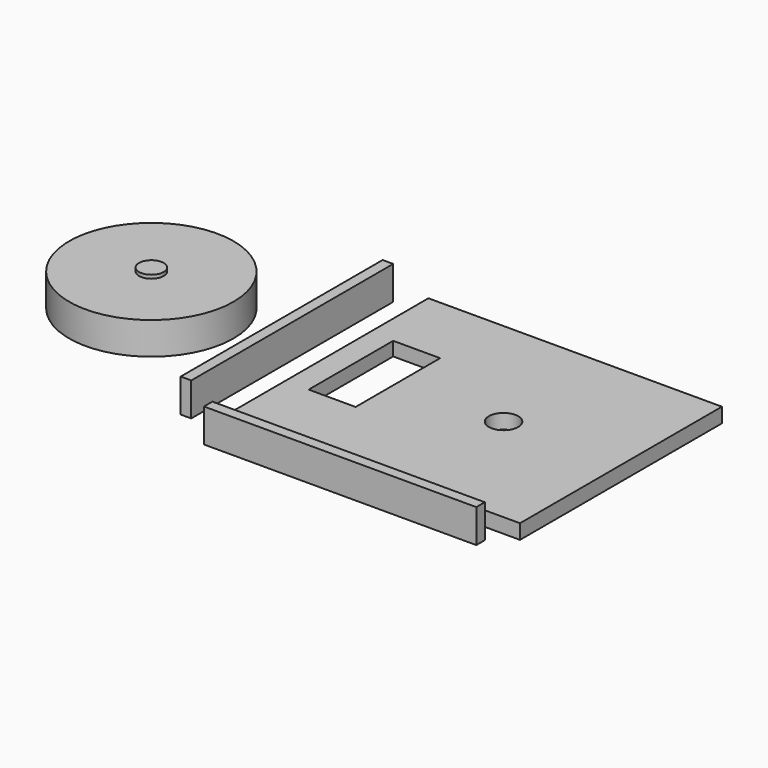
from build123d import *

# Parameters (mm, degrees)
F0_W      = 500
F0_H      = 430
F1_DEPTH  = 25
F3_R      = 140
F4_DEPTH  = 55
F5_R      = 21
F6_DEPTH  = 6
F7_W      = 18
F7_H      = 430
F7_W_2    = 464
F7_H_2    = 18
F8_DEPTH  = 57
F2_W      = 80
F2_H      = 180
F2_R      = 25
F9_DEPTH  = 25.001
F10_W     = 100
F10_H     = 220
F10_W_2   = 80
F10_H_2   = 180
F11_DEPTH = 1.5


with BuildPart() as f1:
    # F0 (on Top) → F1 (new body)
    with BuildSketch(Plane.XY):
        with Locations((250, 215)):
            Rectangle(F0_W, F0_H)
    extrude(amount=F1_DEPTH)

    # F2 (on face) → F9 (cut, through all)
    with BuildSketch(Plane.XY.offset(25)):
        with Locations((80, 215)):
            Rectangle(F2_W, F2_H)
        with Locations((300, 215)):
            Circle(F2_R)
    extrude(amount=-F9_DEPTH, mode=Mode.SUBTRACT)

    # F10 (on face) → F11 (cut)
    with BuildSketch(Plane(origin=(0, 0, 0), x_dir=(1, 0, 0), z_dir=(0, 0, -1))):
        with Locations((80, -215)):
            Rectangle(F10_W, F10_H)
        with Locations((80, -215)):
            Rectangle(F10_W_2, F10_H_2, mode=Mode.SUBTRACT)
    extrude(amount=-F11_DEPTH, mode=Mode.SUBTRACT)


with BuildPart() as f4:
    # F3 (on Top) → F4 (new body)
    with BuildSketch(Plane.XY):
        with Locations((-300, 215)):
            Circle(F3_R)
    extrude(amount=F4_DEPTH)

    # F5 (on face) → F6 (join)
    with BuildSketch(Plane.XY.offset(55)):
        with Locations((-300, 215)):
            Circle(F5_R)
    extrude(amount=F6_DEPTH)


with BuildPart() as f8:
    # F7 (on Top) → F8 (new body)
    with BuildSketch(Plane.XY):
        with Locations((-69, 215)):
            Rectangle(F7_W, F7_H)
        with Locations((232, -39)):
            Rectangle(F7_W_2, F7_H_2)
    extrude(amount=F8_DEPTH)


solid = Compound([f1.part, f4.part, f8.part])
